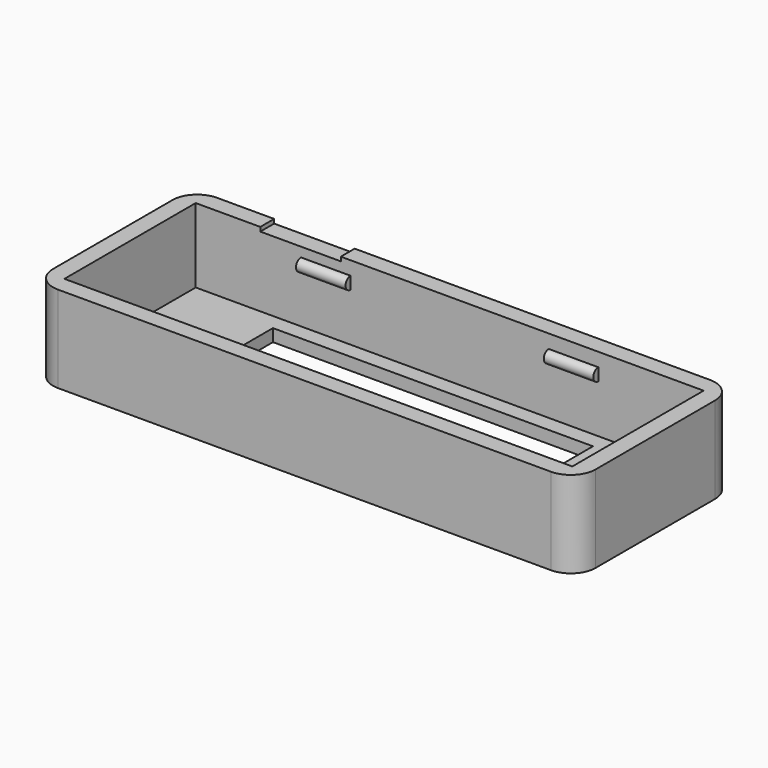
from build123d import *

# Parameters (mm, degrees)
SKETCH010_W     = 43.8
SKETCH010_H     = 16.05
SKETCH010_W_2   = 41
SKETCH010_H_2   = 13.25
PAD004_DEPTH    = 6
SKETCH011_W     = 43.8
SKETCH011_H     = 16.05
SKETCH011_W_2   = 25.832
SKETCH011_H_2   = 10.205235
PAD005_DEPTH    = 1
FILLET_R        = 2
SKETCH012_W     = 6.5
SKETCH012_H     = 4.714983
POCKET004_DEPTH = 8.026
SKETCH027_R     = 0.5
PAD006_DEPTH    = 2


with BuildPart() as part:
    # Sketch010 → Pad004 (new body)
    with BuildSketch(Plane.XY):
        Rectangle(SKETCH010_W, SKETCH010_H)
        Rectangle(SKETCH010_W_2, SKETCH010_H_2, mode=Mode.SUBTRACT)
    extrude(amount=PAD004_DEPTH)

    # Sketch011 → Pad005 (join)
    with BuildSketch(Plane.XY):
        Rectangle(SKETCH011_W, SKETCH011_H)
        with Locations((-0.318418, 0.23483)):
            Rectangle(SKETCH011_W_2, SKETCH011_H_2, mode=Mode.SUBTRACT)
    extrude(amount=-PAD005_DEPTH)

    # Fillet
    fillet_edges = [part.edges().sort_by_distance(p)[0] for p in [
        (-21.9, -8.025, 3),
        (21.9, -8.025, 3),
        (-21.9, 8.025, 3),
        (21.9, 8.025, 3),
    ]]
    fillet(fillet_edges, radius=FILLET_R)

    # Sketch012 → Pocket004 (cut, through all)
    with BuildSketch(Plane.XZ):
        with Locations((-12.036756, 8.023509)):
            Rectangle(SKETCH012_W, SKETCH012_H)
    extrude(amount=-POCKET004_DEPTH, mode=Mode.SUBTRACT)

    # Sketch027 → Pad006 (join, symmetric)
    with BuildSketch(Plane.YZ.offset(10)):
        with Locations((6.62, 4.4)):
            Circle(SKETCH027_R)
        with Locations((-6.62, 4.4)):
            Circle(SKETCH027_R)
    pad006 = extrude(amount=PAD006_DEPTH, both=True)

    # Mirrored001: Pad006 across YZ
    add(pad006.mirror(Plane.YZ))


solid = part.part
